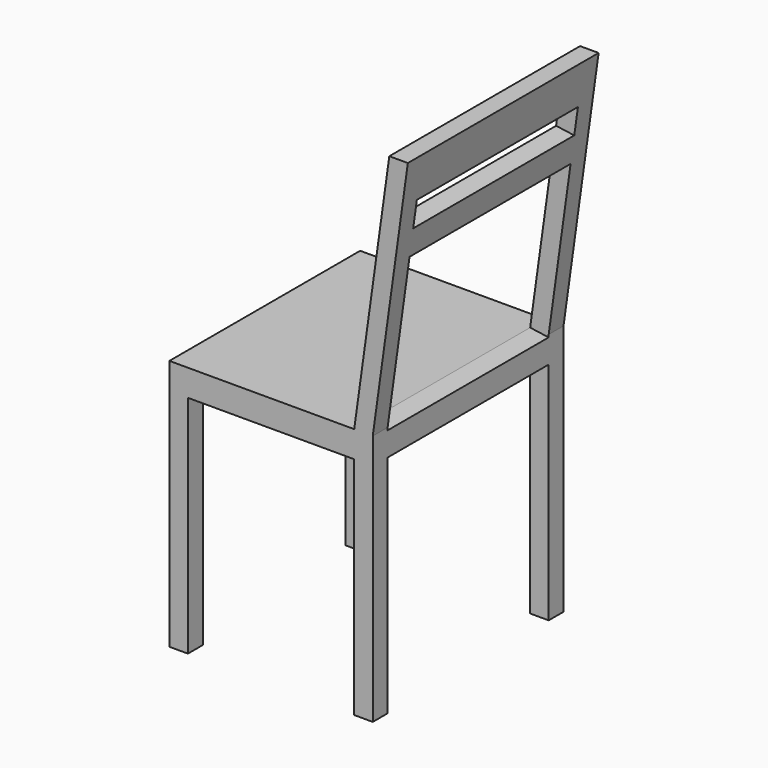
from build123d import *

# Parameters (mm, degrees)
F0_W     = 450
F0_H     = 450
F1_DEPTH = 950
F2_W     = 66.2090092897
F2_H     = 425
F2_W_2   = 313.7909907103
F2_H_2   = 50
F3_DEPTH = 450.001
F4_W     = 380
F4_H     = 425
F5_DEPTH = 450.001
F6_W     = 380
F6_H     = 50
F6_H_2   = 304.5921526788
F7_DEPTH = 165.8159708686


with BuildPart() as f1:
    # F0 (on Top) → F1 (new body)
    with BuildSketch(Plane.XY):
        Rectangle(F0_W, F0_H)
    extrude(amount=F1_DEPTH)

    # F2 (on face) → F3 (cut, through all)
    with BuildSketch(Plane.XZ.offset(225)):
        Polygon((-225, 475), (123.7909907103, 475), (190, 950), (-225, 950), align=None)
        Polygon((158.7909907103, 475), (225, 475), (225, 950), align=None)
        with Locations((191.8954953551, 212.5)):
            Rectangle(F2_W, F2_H)
        with Locations((-33.1045046449, 212.5)):
            Rectangle(F2_W_2, F2_H)
        with Locations((191.8954953551, 450)):
            Rectangle(F2_W, F2_H_2)
    extrude(amount=-F3_DEPTH, mode=Mode.SUBTRACT)

    # F4 (on face) → F5 (cut, through all)
    with BuildSketch(Plane(origin=(-225, 0, 0), x_dir=(0, -1, 0), z_dir=(-1, 0, 0))):
        with Locations((0, 212.5)):
            Rectangle(F4_W, F4_H)
    extrude(amount=-F5_DEPTH, mode=Mode.SUBTRACT)

    # F6 (on face) → F7 (cut, through all)
    with BuildSketch(Plane(origin=(56.4845518778, 0, -7.8732341474), x_dir=(0, -1, 0), z_dir=(-0.9904248794, 0, 0.1380527369))):
        with Locations((0, 867.1336554909)):
            Rectangle(F6_W, F6_H)
        with Locations((0, 639.8375791515)):
            Rectangle(F6_W, F6_H_2)
    extrude(amount=-F7_DEPTH, mode=Mode.SUBTRACT)


solid = f1.part
